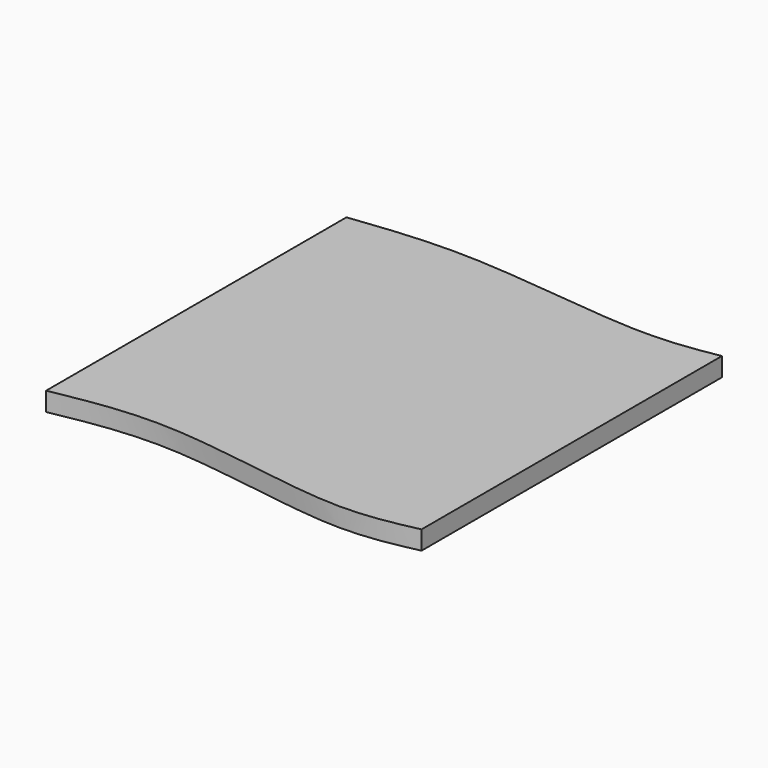
from build123d import *

# Parameters (mm, degrees)
F1_DEPTH = 30.48


with BuildPart() as f1:
    # F0 (on Top) → F1 (new body)
    with BuildSketch(Plane.XY):
        with BuildLine():
            Line((0, 609.6), (0, 0))
            add(Edge.make_bspline(
                [(0, 0), (58.1587952291, 10.9303328651), (187.4524375055, 35.229710833), (470.9270569581, -30.1318754598), (569.3053011806, -8.7555280784), (609.6, 0)],
                knots=[0, 0, 0, 0, 0.3255596611, 0.7237562985, 1, 1, 1, 1], degree=3))
            Line((609.6, 0), (609.6, 609.6))
            add(Edge.make_bspline(
                [(0, 609.6), (61.1444605806, 616.9683704557), (195.4077409625, 633.1481123171), (479.9164076585, 587.2590846289), (572.4958154312, 603.2079697331), (609.6, 609.6)],
                knots=[0, 0, 0, 0, 0.3338158229, 0.7330051978, 1, 1, 1, 1], degree=3))
        make_face()
    extrude(amount=F1_DEPTH)


solid = f1.part
